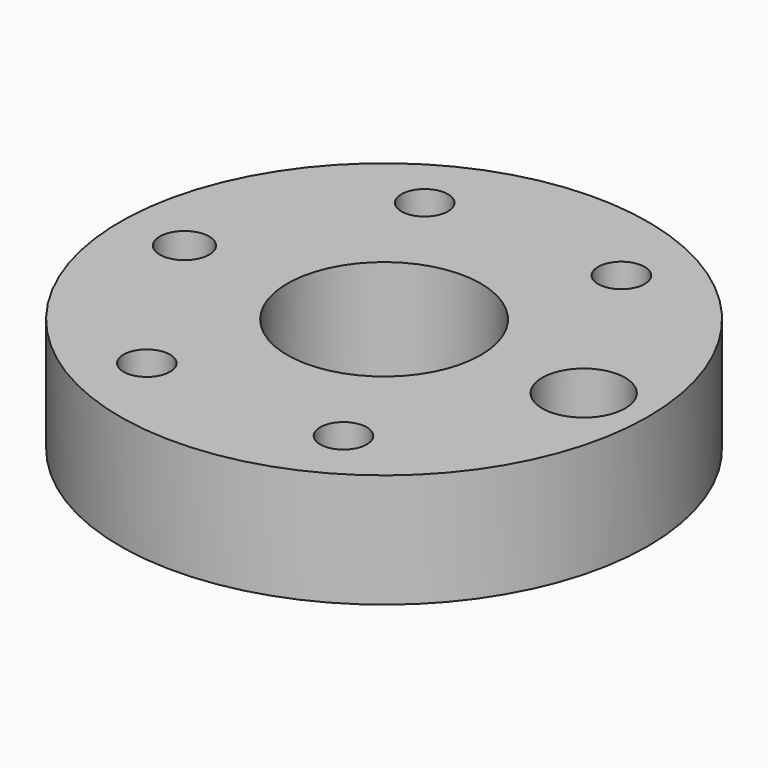
from build123d import *

# Parameters (mm, degrees)
F0_R     = 58.8947107228
F0_R_2   = 5.1981169028
F0_R_3   = 5.5118
F0_R_4   = 21.6003049715
F0_R_5   = 9.266578838
F1_DEPTH = 25.4


with BuildPart() as f1:
    # F0 (on Top) → F1 (new body)
    with BuildSketch(Plane.XY):
        Circle(F0_R)
        with Locations((-21.9411833077, -38.7532826778)):
            Circle(F0_R_2, mode=Mode.SUBTRACT)
        with Locations((21.9411833077, -38.7532826778)):
            Circle(F0_R_2, mode=Mode.SUBTRACT)
        with Locations((-44.5334979903, 0)):
            Circle(F0_R_3, mode=Mode.SUBTRACT)
        with Locations((-21.9411833077, 38.7532826778)):
            Circle(F0_R_2, mode=Mode.SUBTRACT)
        Circle(F0_R_4, mode=Mode.SUBTRACT)
        with Locations((44.5334979903, 0)):
            Circle(F0_R_5, mode=Mode.SUBTRACT)
        with Locations((21.9411833077, 38.7532826778)):
            Circle(F0_R_2, mode=Mode.SUBTRACT)
    extrude(amount=F1_DEPTH)


solid = f1.part
